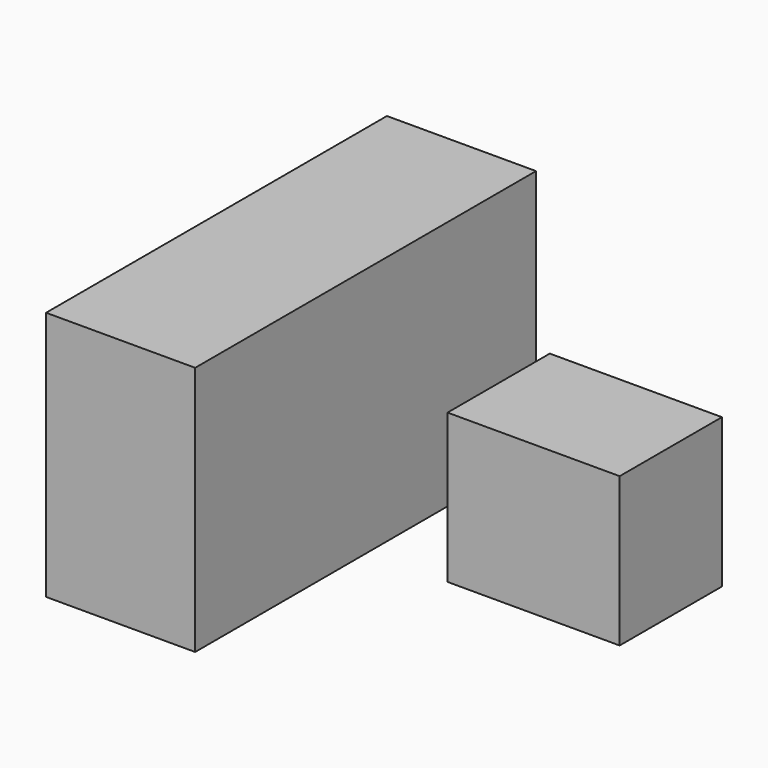
from build123d import *

# Parameters (mm, degrees)
F0_W     = 72.587258
F0_H     = 42.627126
F1_DEPTH = 25.4
F2_W     = 29.326936
F2_H     = 21.774795
F3_DEPTH = 25.4


with BuildPart() as f1:
    # F0 (on Right) → F1 (new body)
    with BuildSketch(Plane.YZ):
        with Locations((-47.883656, 21.313563)):
            Rectangle(F0_W, F0_H)
    extrude(amount=-F1_DEPTH)


with BuildPart() as f3:
    # F2 (on Top) → F3 (new body)
    with BuildSketch(Plane.XY):
        with Locations((28.268439, -36.550342)):
            Rectangle(F2_W, F2_H)
    extrude(amount=F3_DEPTH)


solid = Compound([f1.part, f3.part])
